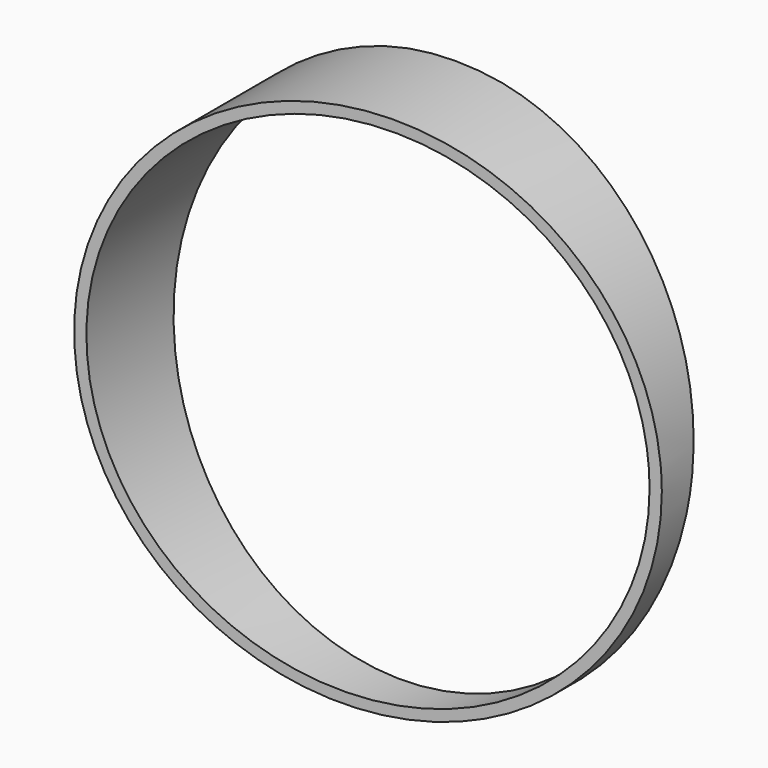
from build123d import *

# Parameters (mm, degrees)
F0_R     = 38.1
F0_R_2   = 36.5125
F1_DEPTH = 12.7
F5_DEPTH = 38.1
F8_DEPTH = 50.8


with BuildPart() as f1:
    # F0 (on Front) → F1 (new body, symmetric)
    with BuildSketch(Plane.XZ):
        with Locations((0, 38.1)):
            Circle(F0_R)
        with Locations((0, 38.1)):
            Circle(F0_R_2, mode=Mode.SUBTRACT)
    extrude(amount=F1_DEPTH, both=True)

    # F4 (on Right) → F5 (cut, symmetric)
    with BuildSketch(Plane.YZ):
        Polygon((12.7786435187, -8.8192215189), (12.7786435187, 76.2), (1.5856506628, -8.8192215189), align=None)
    extrude(amount=F5_DEPTH, both=True, mode=Mode.SUBTRACT)

    # F7 (on offset) → F8 (cut, symmetric)
    with BuildSketch(Plane(origin=(2.1557702546, 0.302973751, 0), x_dir=(0.139173101, -0.9902680687, 0), z_dir=(-0.9902680687, -0.139173101, 0))):
        Polygon((31.6142430529, 76.0232245399), (3.0474591767, 76.5205744021), (3.0474591767, -2.2310584007), (31.6142430529, -2.2310584007), align=None)
    extrude(amount=F8_DEPTH, both=True, mode=Mode.SUBTRACT)


solid = f1.part
